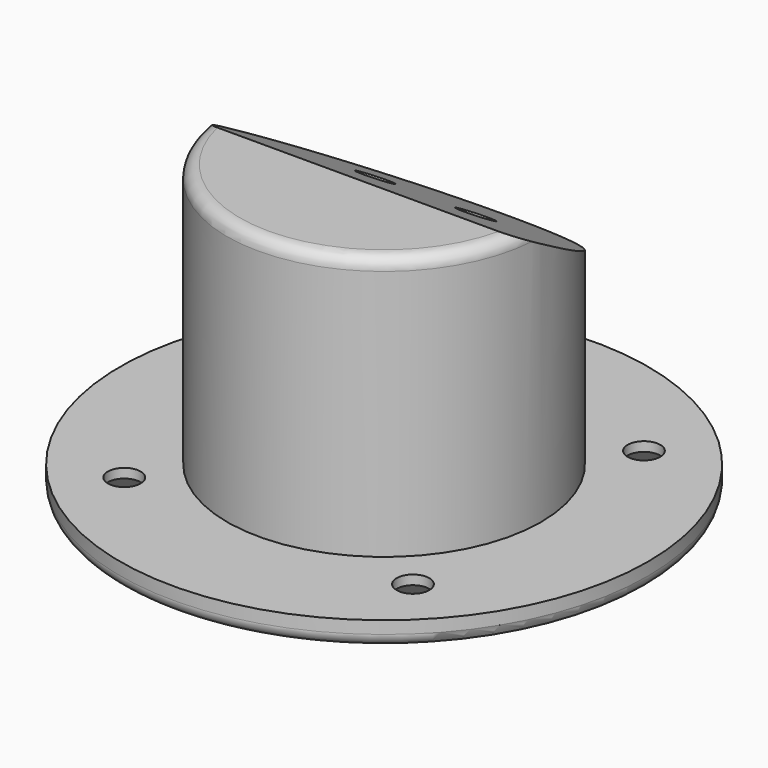
from build123d import *

# Parameters (mm, degrees)
SKETCH_R          = 42.0538238692
SKETCH_R_2        = 23
SKETCH_R_3        = 2.6
PAD_DEPTH         = 4
SKETCH001_R       = 25
SKETCH001_R_2     = 23
PAD001_DEPTH      = 50
POCKET_DEPTH      = 25
POCKET_DEPTH_BACK = 25
SKETCH003_R       = 31
PAD002_DEPTH      = 3
SKETCH004_R       = 42.0538238692
SKETCH004_R_2     = 25
POCKET001_DEPTH   = 55
SKETCH005_R       = 2.7
POCKET002_DEPTH   = 5
SKETCH006_W       = 30
SKETCH006_H       = 20
POCKET003_DEPTH   = 25.5
PAD003_DEPTH      = 3
SKETCH008_W       = 50
SKETCH008_H       = 10
POCKET004_DEPTH   = 7
FILLET_R          = 2
CHAMFER_SIZE      = 1
CHAMFER001_SIZE   = 2.5


with BuildPart() as part:
    # Sketch → Pad (new body)
    with BuildSketch(Plane.XY):
        Circle(SKETCH_R)
        Circle(SKETCH_R_2, mode=Mode.SUBTRACT)
        with Locations((-23, 23)):
            Circle(SKETCH_R_3, mode=Mode.SUBTRACT)
        with Locations((23, 23)):
            Circle(SKETCH_R_3, mode=Mode.SUBTRACT)
        with Locations((23, -23)):
            Circle(SKETCH_R_3, mode=Mode.SUBTRACT)
        with Locations((-23, -23)):
            Circle(SKETCH_R_3, mode=Mode.SUBTRACT)
    extrude(amount=PAD_DEPTH)

    # Sketch001 (on Face8 of Pad) → Pad001 (join)
    with BuildSketch(Plane.XY.offset(4)):
        Circle(SKETCH001_R)
        Circle(SKETCH001_R_2, mode=Mode.SUBTRACT)
    extrude(amount=PAD001_DEPTH)

    # Sketch002 → Pocket (cut, two sides)
    with BuildSketch(Plane.YZ) as pocket_sk:
        Polygon((-25, 54), (25, 25.1324865414), (25, 54), align=None)
    extrude(amount=-POCKET_DEPTH, mode=Mode.SUBTRACT)
    extrude(pocket_sk.sketch, amount=POCKET_DEPTH_BACK, mode=Mode.SUBTRACT)

    # Sketch003 (on Face11 of Pocket) → Pad002 (join)
    with BuildSketch(Plane(origin=(0, 17.1326859021, 29.6746824535), x_dir=(1, 0, 0), z_dir=(0, 0.5, 0.8660254038))):
        with Locations((0, -19.7831216349)):
            Circle(SKETCH003_R)
    extrude(amount=PAD002_DEPTH)

    # Sketch004 (on Face5 of Pad002) → Pocket001 (cut)
    with BuildSketch(Plane.XY.offset(4)):
        Circle(SKETCH004_R)
        Circle(SKETCH004_R_2, mode=Mode.SUBTRACT)
    extrude(amount=POCKET001_DEPTH, mode=Mode.SUBTRACT)

    # Sketch005 (on Face13 of Pocket001) → Pocket002 (cut)
    with BuildSketch(Plane(origin=(0, 17.1326859021, 29.6746824535), x_dir=(1, 0, 0), z_dir=(0, -0.5, -0.8660254038))):
        with Locations((-8, 12)):
            Circle(SKETCH005_R)
        with Locations((8, 12)):
            Circle(SKETCH005_R)
    extrude(amount=-POCKET002_DEPTH, mode=Mode.SUBTRACT)

    # Sketch006 → Pocket003 (cut, symmetric)
    with BuildSketch(Plane.YZ):
        with Locations((-15, 53.0303448858)):
            Rectangle(SKETCH006_W, SKETCH006_H)
    extrude(amount=POCKET003_DEPTH, both=True, mode=Mode.SUBTRACT)

    # Sketch007 (on Face4 of Pocket003) → Pad003 (join)
    with BuildSketch(Plane.XY.offset(43.0303448858)):
        with BuildLine():
            ThreePointArc((-25, 0), (0, -25), (25, 0))
            Line((-25, 0), (25, 0))
        make_face()
    extrude(amount=PAD003_DEPTH)

    # Sketch008 (on Face13 of Pad003) → Pocket004 (cut)
    with BuildSketch(Plane(origin=(0, 18.6326859021, 32.2727586649), x_dir=(1, 0, 0), z_dir=(0, 0.5, 0.8660254038))):
        with Locations((0, -26.5151724424)):
            Rectangle(SKETCH008_W, SKETCH008_H)
    extrude(amount=POCKET004_DEPTH, mode=Mode.SUBTRACT)

    # Fillet
    fillet_edges = [part.edges().sort_by_distance(p)[0] for p in [
        (-23, 0, 0),
        (-42.053824, 0, 0),
        (0, -25, 46.030345),
    ]]
    fillet(fillet_edges, radius=FILLET_R)

    # Chamfer
    chamfer_edges = [part.edges().sort_by_distance(p)[0] for p in [
        (5.3, 6.740381, 35.674682),
        (-10.7, 6.740381, 35.674682),
    ]]
    chamfer(chamfer_edges, length=CHAMFER_SIZE)

    # Chamfer001
    chamfer001_edges = [part.edges().sort_by_distance(p)[0] for p in [
        (20.4, -23, 0),
        (20.4, 23, 0),
        (-25.6, 23, 0),
        (-25.6, -23, 0),
    ]]
    chamfer(chamfer001_edges, length=CHAMFER001_SIZE)


solid = part.part
